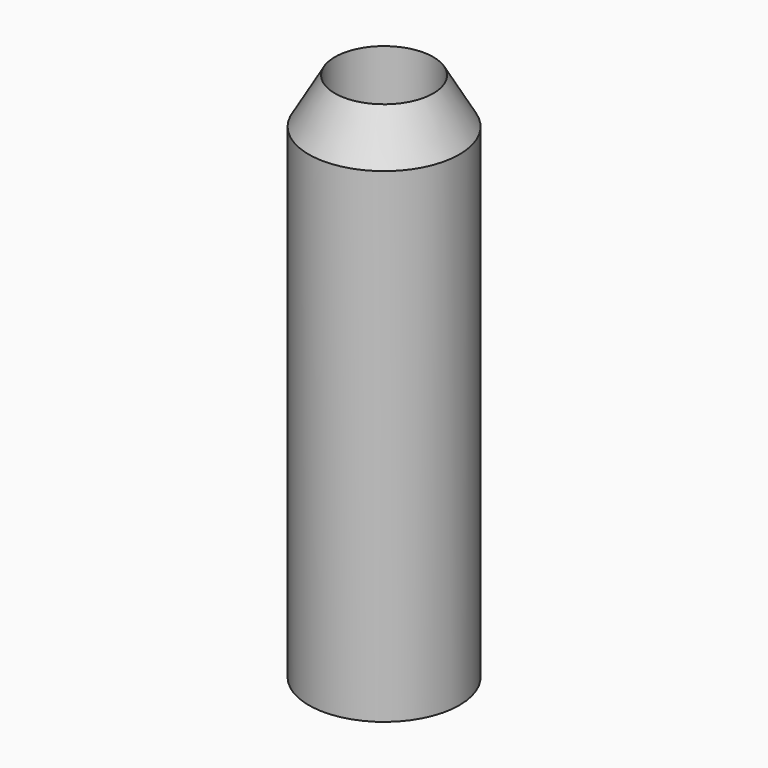
from build123d import *

# Parameters (mm, degrees)
F0_R     = 10.4775
F1_DEPTH = 76.2
F2_SIZE2 = 8.7988181024
F2_SIZE  = 5.08
F3_R     = 6.8453
F4_DEPTH = 76.201


with BuildPart() as f1:
    # F0 (on Top) → F1 (new body)
    with BuildSketch(Plane.XY):
        Circle(F0_R)
    extrude(amount=F1_DEPTH)

    # F2
    f2_edges = [f1.edges().sort_by_distance(p)[0] for p in [
        (-10.4775, 0, 76.2),
    ]]
    f2_side = f1.faces().sort_by_distance((0, 0, 76.2))[0]
    chamfer(f2_edges, length=F2_SIZE, length2=F2_SIZE2, reference=f2_side)

    # F3 (on face) → F4 (cut, through all)
    with BuildSketch(Plane(origin=(0, 0, 0), x_dir=(1, 0, 0), z_dir=(0, 0, -1))):
        Circle(F3_R)
    extrude(amount=-F4_DEPTH, mode=Mode.SUBTRACT)


solid = f1.part
